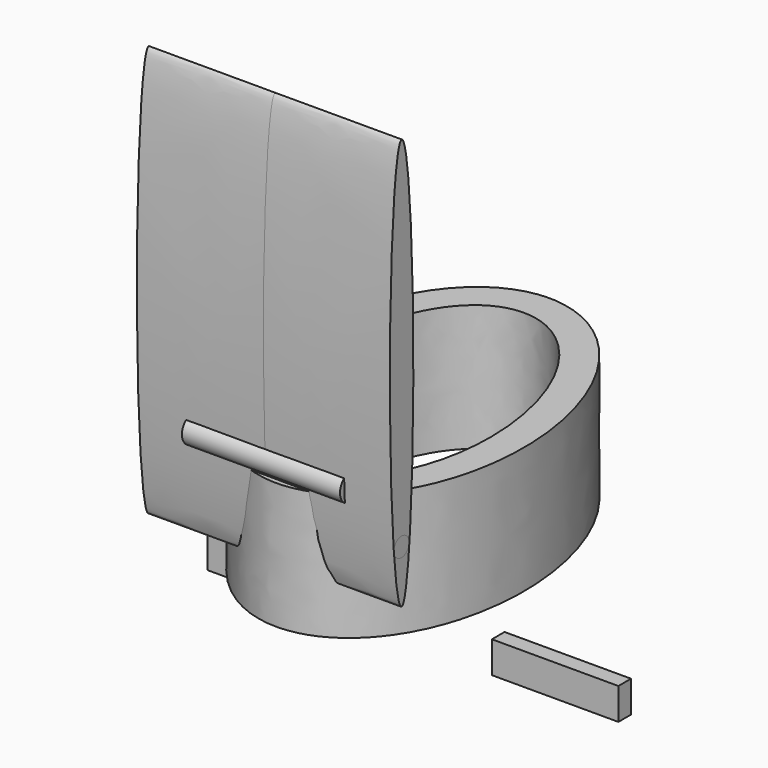
from build123d import *

# Parameters (mm, degrees)
F1_DEPTH  = 50.8
F2_R      = 5.5495263184
F3_DEPTH  = 31.75
F4_R      = 2.1804078475
F5_DEPTH  = 50.8
F6_R      = 3.8227
F7_DEPTH  = 50.8
F8_W      = 10.16
F8_H      = 12.7
F9_DEPTH  = 6.35
F10_W     = 50.8
F10_H     = 12.7
F11_DEPTH = 6.35


with BuildPart() as f1:
    # F0 (on Top) → F1 (new body)
    with BuildSketch(Plane.XY):
        with BuildLine():
            add(Edge.make_bspline(
                [(-10.4870045821, 75.4749146067), (-97.6379291126, 63.3655647698), (-38.3319599742, -43.7921322218), (20.9740091642, -150.9498292135), (48.8189645563, -31.6827823849), (76.6639199484, 87.5842644437), (-10.4870045821, 75.4749146067)],
                knots=[0, 0, 0, 2.0943951024, 2.0943951024, 4.1887902048, 4.1887902048, 6.2831853072, 6.2831853072, 6.2831853072], degree=2, weights=[1, 0.5, 1, 0.5, 1, 0.5, 1]))
        make_face()
        with BuildLine():
            add(Edge.make_bspline(
                [(9.1451588351, -62.8380145285), (74.4483391211, -53.3340866811), (28.0790107255, 36.1709711879), (-18.2903176702, 125.676029057), (-37.2241695606, 26.6670433405), (-56.1580214509, -72.3419423759), (9.1451588351, -62.8380145285)],
                knots=[0, 0, 0, 2.0943951024, 2.0943951024, 4.1887902048, 4.1887902048, 6.2831853072, 6.2831853072, 6.2831853072], degree=2, weights=[1, 0.5, 1, 0.5, 1, 0.5, 1]))
        make_face(mode=Mode.SUBTRACT)
    extrude(amount=F1_DEPTH)

    # F2 (on Right) → F3 (join, symmetric)
    with BuildSketch(Plane.YZ):
        with Locations((-70.6827895261, 55.9632798788)):
            Circle(F2_R)
    extrude(amount=F3_DEPTH, both=True)

    # F8 (on Front) → F9 (join)
    with BuildSketch(Plane.XZ):
        with Locations((-36.83, 6.35)):
            Rectangle(F8_W, F8_H)
        with Locations((36.83, 6.35)):
            Rectangle(F8_W, F8_H)
    extrude(amount=-F9_DEPTH)


with BuildPart() as f5:
    # F4 (on Right) → F5 (new body, symmetric)
    with BuildSketch(Plane.YZ):
        with BuildLine():
            add(Edge.make_bspline(
                [(-75.0224989549, 101.6044362068), (-75.0224989549, 19.0544362068), (-69.1324099898, 19.0544362068)],
                knots=[4.7123889804, 4.7123889804, 4.7123889804, 6.2831853072, 6.2831853072, 6.2831853072], degree=2, weights=[1, 0.7071067812, 1]))
            add(Edge.make_bspline(
                [(-69.1324099898, 19.0544362068), (-54.9124773269, 19.0544362068), (-64.9674881409, 159.9761009938), (-75.0224989549, 300.8977657807), (-75.0224989549, 101.6044362068)],
                knots=[0, 0, 0, 2.3561944902, 2.3561944902, 4.7123889804, 4.7123889804, 4.7123889804], degree=2, weights=[1, 0.3826834324, 1, 0.3826834324, 1]))
        make_face()
        with Locations((-69.085508585, 39.5377501845)):
            Circle(F4_R, mode=Mode.SUBTRACT)
    extrude(amount=F5_DEPTH, both=True)


with BuildPart() as f7:
    # F6 (on Right) → F7 (new body, symmetric)
    with BuildSketch(Plane.YZ):
        with Locations((-69.1978931427, 40.2071215212)):
            Circle(F6_R)
    extrude(amount=F7_DEPTH, both=True)


with BuildPart() as f11:
    # F10 (on Front) → F11 (new body)
    with BuildSketch(Plane.XZ):
        with Locations((57.15, -33.1339346409)):
            Rectangle(F10_W, F10_H)
    extrude(amount=-F11_DEPTH)


with BuildPart() as f11b:
    # F10 (on Front) → F11, piece 2 (new body)
    with BuildSketch(Plane.XZ):
        with Locations((-57.15, -33.1339346409)):
            Rectangle(F10_W, F10_H)
    extrude(amount=-F11_DEPTH)


solid = Compound([f1.part, f5.part, f7.part, f11.part, f11b.part])
